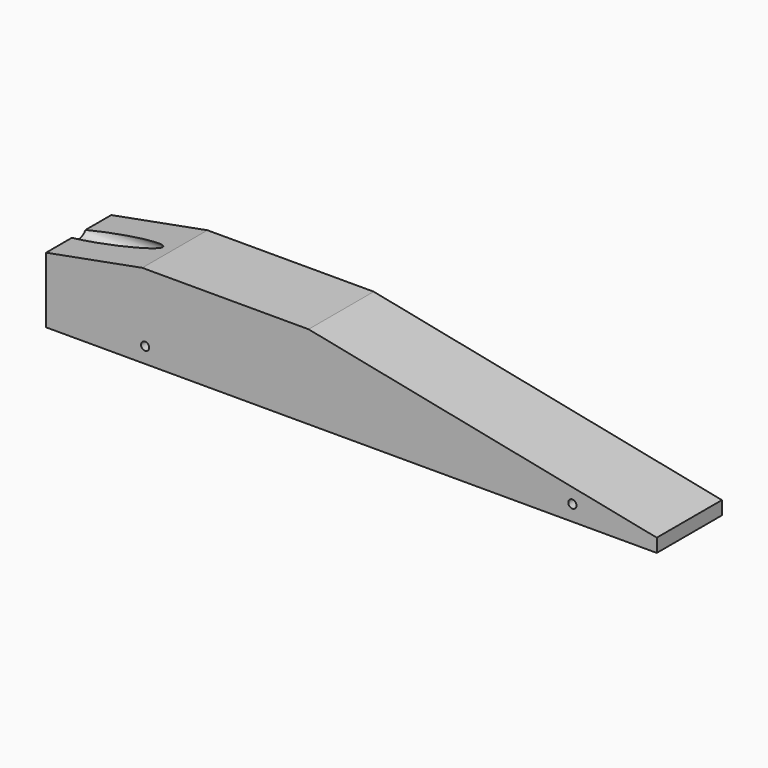
from build123d import *

# Parameters (mm, degrees)
F1_DEPTH = 40
F2_R     = 5
F3_DEPTH = 65
F4_R     = 2
F5_DEPTH = 40.001


with BuildPart() as f1:
    # F0 (on Front) → F1 (new body)
    with BuildSketch(Plane.XZ):
        Polygon((-84.199729, 0), (-84.199729, -32.299187), (215.800271, -32.299187), (215.800271, -25.689224), (44.751238, 8.807085), (-36.943395, 8.807085), align=None)
    extrude(amount=F1_DEPTH)

    # F2 (on face) → F3 (cut)
    with BuildSketch(Plane(origin=(-84.199729, 0, 0), x_dir=(0, -1, 0), z_dir=(-1, 0, 0))):
        with Locations((20, 2.700813)):
            Circle(F2_R)
    extrude(amount=-F3_DEPTH, mode=Mode.SUBTRACT)

    # F4 (on face) → F5 (cut, through all)
    with BuildSketch(Plane.XZ.offset(40)):
        with Locations((-35.561115, -24.638616)):
            Circle(F4_R)
        with Locations((174.334928, -24.638616)):
            Circle(F4_R)
    extrude(amount=-F5_DEPTH, mode=Mode.SUBTRACT)


solid = f1.part
